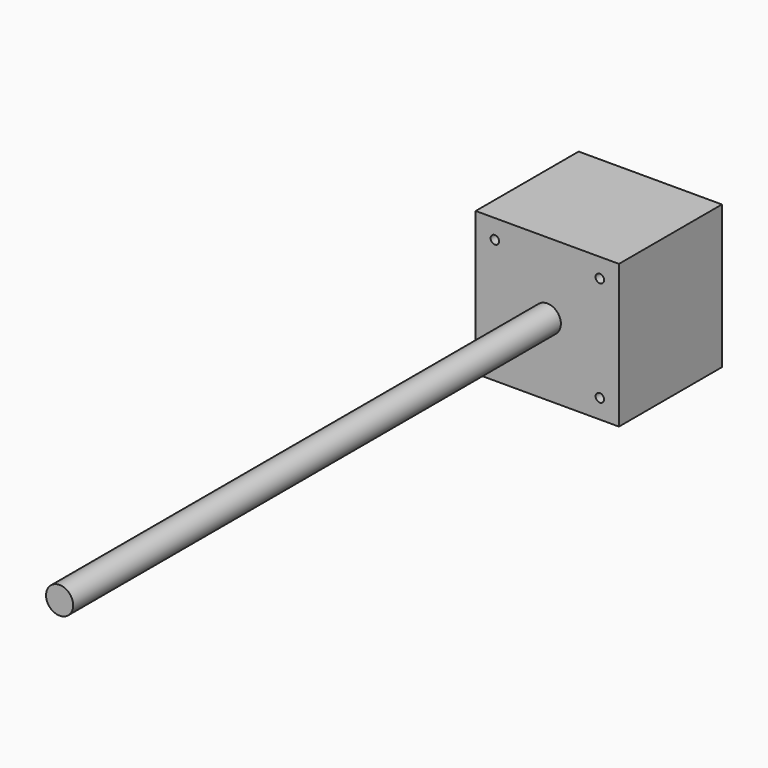
from build123d import *

# Parameters (mm, degrees)
F0_W     = 42.3
F0_H     = 42.3
F0_R     = 1.25
F1_DEPTH = 19
F2_R     = 4
F3_DEPTH = 180


with BuildPart() as f1:
    # F0 (on Front) → F1 (new body, symmetric)
    with BuildSketch(Plane.XZ):
        Rectangle(F0_W, F0_H)
        with Locations((-15.5, -15.5)):
            Circle(F0_R, mode=Mode.SUBTRACT)
        with Locations((15.5, -15.5)):
            Circle(F0_R, mode=Mode.SUBTRACT)
        with Locations((-15.5, 15.5)):
            Circle(F0_R, mode=Mode.SUBTRACT)
        with Locations((15.5, 15.5)):
            Circle(F0_R, mode=Mode.SUBTRACT)
    extrude(amount=F1_DEPTH, both=True)

    # F2 (on face) → F3 (join)
    with BuildSketch(Plane.XZ.offset(19)):
        Circle(F2_R)
    extrude(amount=F3_DEPTH)


solid = f1.part
